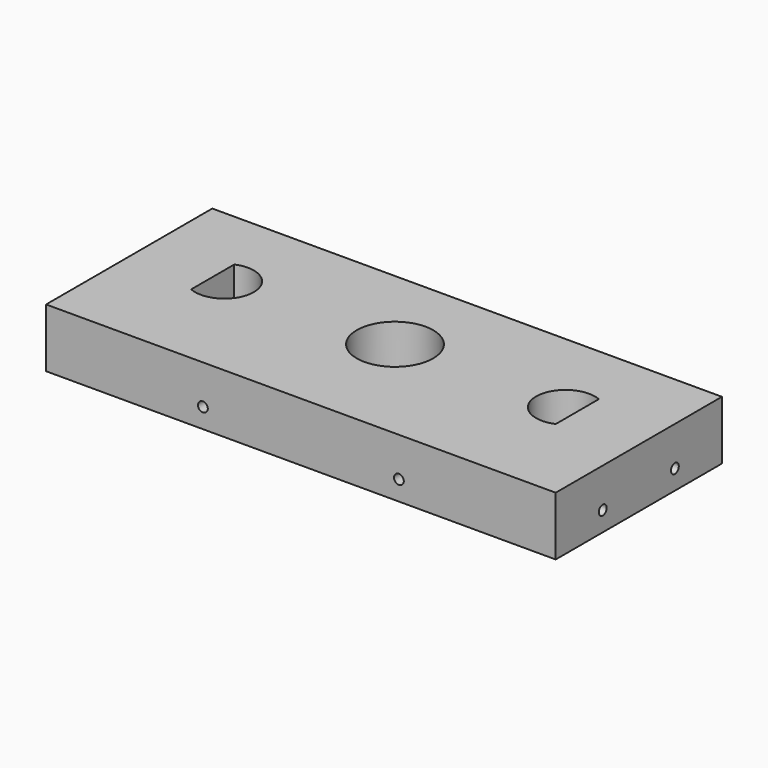
from build123d import *

# Parameters (mm, degrees)
F0_W      = 130
F0_H      = 53
F1_DEPTH  = 15
F2_R      = 1.25
F5_DEPTH  = 35
F3_R      = 1.25
F6_DEPTH  = 53
F4_R      = 1.25
F7_DEPTH  = 35
F9_DEPTH  = 15
F10_R     = 9.75
F11_DEPTH = 15


with BuildPart() as f1:
    # F0 (on Top) → F1 (new body)
    with BuildSketch(Plane.XY):
        with Locations((20.023906, 2.124549)):
            Rectangle(F0_W, F0_H)
    extrude(amount=F1_DEPTH)

    # F2 (on face) → F5 (cut)
    with BuildSketch(Plane.YZ.offset(85.023906)):
        with Locations((-9.375451, 5)):
            Circle(F2_R)
        with Locations((13.624549, 5)):
            Circle(F2_R)
    extrude(amount=-F5_DEPTH, mode=Mode.SUBTRACT)

    # F3 (on face) → F6 (cut, through all)
    with BuildSketch(Plane.XZ.offset(24.375451)):
        with Locations((-4.976094, 5)):
            Circle(F3_R)
        with Locations((45.023906, 5)):
            Circle(F3_R)
    extrude(amount=-F6_DEPTH, mode=Mode.SUBTRACT)

    # F4 (on face) → F7 (cut)
    with BuildSketch(Plane(origin=(-44.976094, 0, 0), x_dir=(0, -1, 0), z_dir=(-1, 0, 0))):
        with Locations((-13.624549, 5)):
            Circle(F4_R)
        with Locations((9.375451, 5)):
            Circle(F4_R)
    extrude(amount=-F7_DEPTH, mode=Mode.SUBTRACT)

    # F8 (on face) → F9 (cut, through all)
    with BuildSketch(Plane.XY.offset(15)):
        with BuildLine():
            Line((66.523906, -1.249315), (66.523906, 12.498412))
            ThreePointArc((66.523906, 12.498412), (56.023906, 5.624549), (66.523906, -1.249315))
        make_face()
        with BuildLine():
            ThreePointArc((-26.476094, -1.249315), (-19.368175, -0.650401), (-15.976094, 5.624549))
            ThreePointArc((-15.976094, 5.624549), (-19.368175, 11.899499), (-26.476094, 12.498412))
            Line((-26.476094, 12.498412), (-26.476094, -1.249315))
        make_face()
    extrude(amount=-F9_DEPTH, mode=Mode.SUBTRACT)

    # F10 (on face) → F11 (cut, through all)
    with BuildSketch(Plane.XY.offset(15)):
        with Locations((20.023906, 5.624549)):
            Circle(F10_R)
    extrude(amount=-F11_DEPTH, mode=Mode.SUBTRACT)


solid = f1.part
